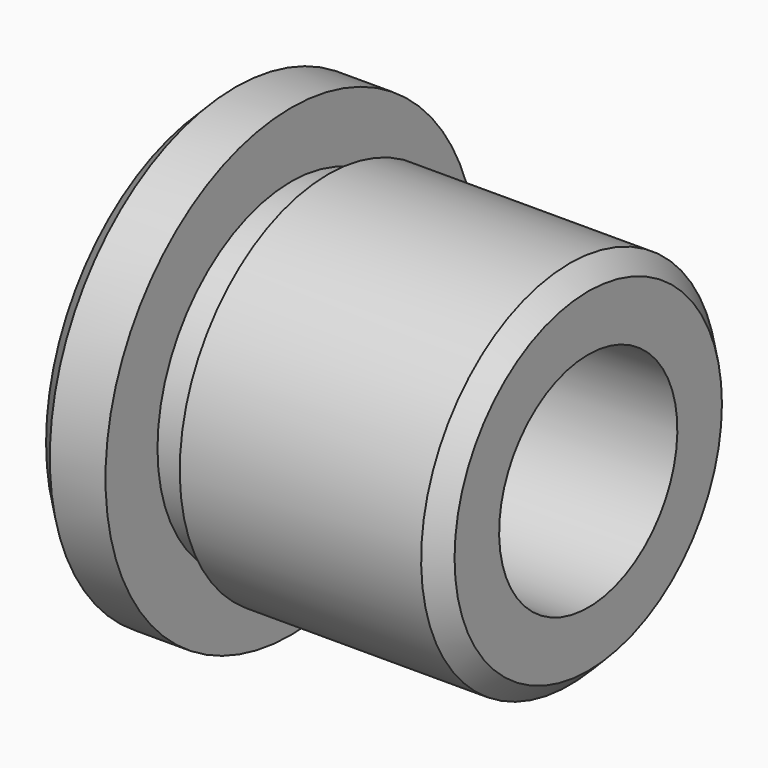
from build123d import *

# Parameters (mm, degrees)
F2_SIZE = 1


with BuildPart() as f1:
    # F0 (on Front) → F1 (revolve)
    with BuildSketch(Plane.XZ):
        with BuildLine():
            Line((0, 12.5), (0, 8))
            ThreePointArc((0, 8), (0.585786, 6.585786), (2, 6))
            Line((2, 6), (20, 6))
            Line((20, 6), (20, 10))
            Line((20, 10), (6, 10))
            Line((6, 10), (6, 9))
            Line((6, 9), (4, 9))
            Line((4, 9), (4, 12.5))
            Line((4, 12.5), (0, 12.5))
        make_face()
    revolve(axis=Axis((12.676579, 0, 0), (1, 0, 0)))

    # F2
    f2_edges = [f1.edges().sort_by_distance(p)[0] for p in [
        (0, 0, -12.5),
        (20, 0, -10),
    ]]
    chamfer(f2_edges, length=F2_SIZE)


solid = f1.part
